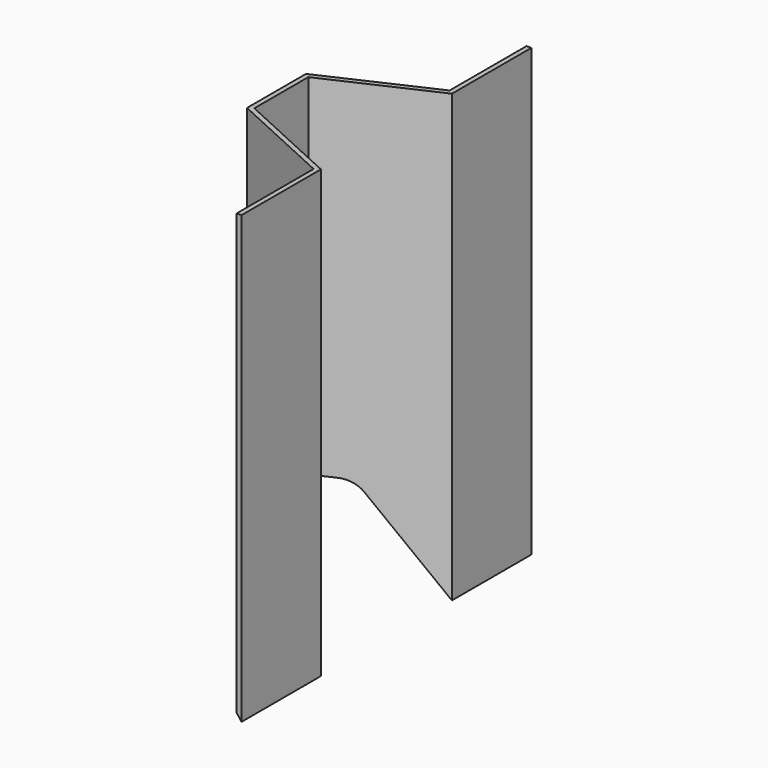
from build123d import *

# Parameters (mm, degrees)
F1_DEPTH = 231.5
F3_DEPTH = 200


with BuildPart() as f1:
    # F0 (on Top) → F1 (new body, symmetric)
    with BuildSketch(Plane.XY):
        Polygon((0, 85), (0, 188), (-5, 188), (-5, 88.208445), (-114.087121, 38.208445), (-114.087121, -38.208445), (-5, -88.208445), (-5, -188), (0, -188), (0, -85), (-109.087121, -35), (-109.087121, 35), align=None)
    extrude(amount=F1_DEPTH, both=True)

    # F2 (on Front) → F3 (cut, symmetric)
    with BuildSketch(Plane.XZ):
        with BuildLine():
            Line((0, -231.5), (-66.591269, -141.617619))
            ThreePointArc((-66.591269, -141.617619), (-75.433046, -134.17222), (-86.678945, -131.5))
            Line((-86.678945, -131.5), (-114.087121, -131.5))
            Line((-114.087121, -131.5), (-114.087121, -231.5))
            Line((-114.087121, -231.5), (0, -231.5))
        make_face()
    extrude(amount=F3_DEPTH, both=True, mode=Mode.SUBTRACT)


solid = f1.part
